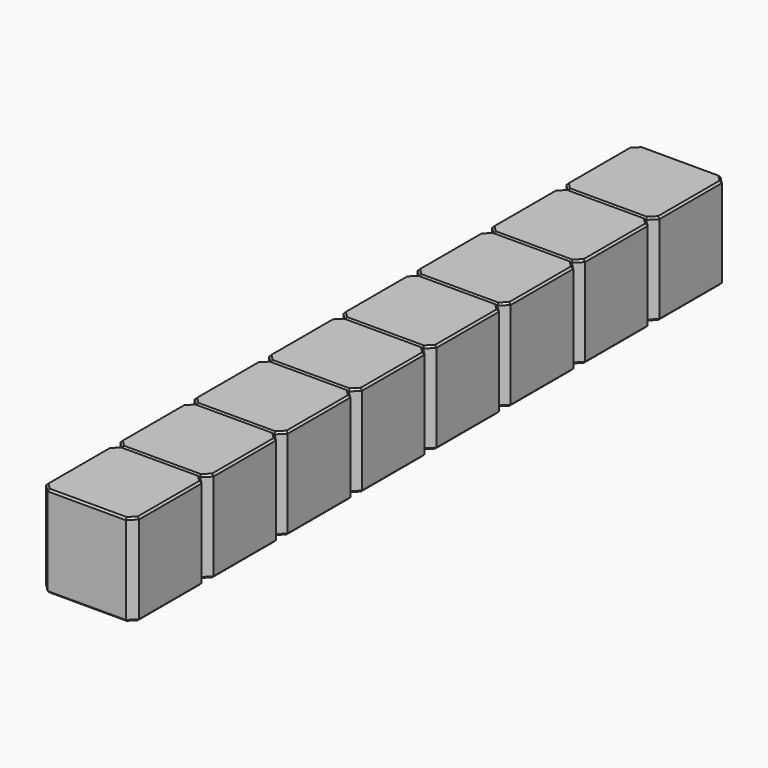
from build123d import *

# Parameters (mm, degrees)
SKETCH208_W     = 2.54
SKETCH208_H     = 2.54
PAD063_DEPTH    = 2.5
CHAMFER014_SIZE = 0.2
CHAMFER013_SIZE = 0.05
ARRAY_Y_COUNT   = 8
ARRAY_Y_PITCH   = 2.54


with BuildPart() as array:
    # Sketch208 → Pad063 (new body)
    with BuildSketch(Plane.XY):
        Rectangle(SKETCH208_W, SKETCH208_H)
    extrude(amount=PAD063_DEPTH)

    # Chamfer014
    chamfer014_edges = [array.edges().sort_by_distance(p)[0] for p in [
        (1.27, -1.27, 1.25),
        (-1.27, -1.27, 1.25),
        (1.27, 1.27, 1.25),
        (-1.27, 1.27, 1.25),
    ]]
    chamfer(chamfer014_edges, length=CHAMFER014_SIZE)

    # Chamfer013
    chamfer013_edges = [array.edges().sort_by_distance(p)[0] for p in [
        (0, -1.27, 2.5),
        (-1.17, -1.17, 2.5),
        (1.17, -1.17, 2.5),
        (-1.27, 0, 2.5),
        (1.27, 0, 2.5),
        (-1.17, 1.17, 2.5),
        (1.17, 1.17, 2.5),
        (0, 1.27, 2.5),
        (0, -1.27, 0),
        (-1.17, -1.17, 0),
        (1.17, -1.17, 0),
        (-1.27, 0, 0),
        (1.27, 0, 0),
        (-1.17, 1.17, 0),
        (1.17, 1.17, 0),
        (0, 1.27, 0),
    ]]
    chamfer(chamfer013_edges, length=CHAMFER013_SIZE)


with BuildPart() as array_copy1:
    # Array Y: instance of Array
    add(array.part.moved(Location(Vector(0, 1, 0) * (1 * ARRAY_Y_PITCH))))


with BuildPart() as array_copy2:
    # Array Y: instance of Array
    add(array.part.moved(Location(Vector(0, 1, 0) * (2 * ARRAY_Y_PITCH))))


with BuildPart() as array_copy3:
    # Array Y: instance of Array
    add(array.part.moved(Location(Vector(0, 1, 0) * (3 * ARRAY_Y_PITCH))))


with BuildPart() as array_copy4:
    # Array Y: instance of Array
    add(array.part.moved(Location(Vector(0, 1, 0) * (4 * ARRAY_Y_PITCH))))


with BuildPart() as array_copy5:
    # Array Y: instance of Array
    add(array.part.moved(Location(Vector(0, 1, 0) * (5 * ARRAY_Y_PITCH))))


with BuildPart() as array_copy6:
    # Array Y: instance of Array
    add(array.part.moved(Location(Vector(0, 1, 0) * (6 * ARRAY_Y_PITCH))))


with BuildPart() as array_copy7:
    # Array Y: instance of Array
    add(array.part.moved(Location(Vector(0, 1, 0) * (7 * ARRAY_Y_PITCH))))


solid = Compound([array.part, array_copy1.part, array_copy2.part, array_copy3.part, array_copy4.part, array_copy5.part, array_copy6.part, array_copy7.part])
